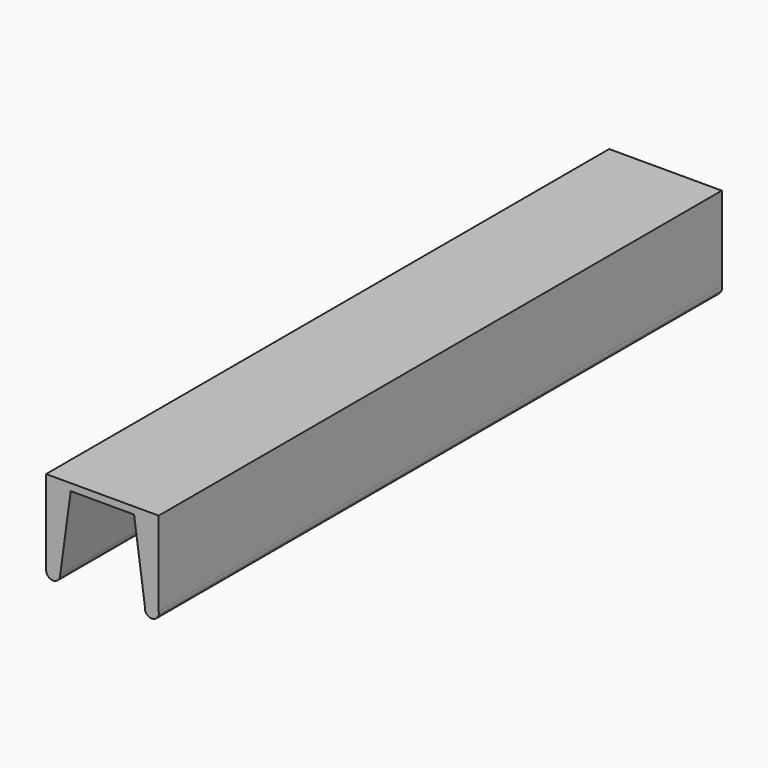
from build123d import *

# Parameters (mm, degrees)
F1_DEPTH = 317.5


with BuildPart() as f1:
    # F0 (on Front) → F1 (new body, symmetric)
    with BuildSketch(Plane.XZ):
        with BuildLine():
            Line((53.8411306598, 32.0202162549), (31.6161306598, 32.0202162549))
            Line((31.6161306598, 32.0202162549), (41.3843568915, -37.8297837451))
            ThreePointArc((41.3843568915, -37.8297837451), (47.6127437756, -45.416592874), (53.8411306598, -37.8297837451))
            Line((53.8411306598, -37.8297837451), (53.8411306598, 32.0202162549))
        make_face()
        Polygon((3.0411306598, 38.3702162549), (3.0411306598, 32.0202162549), (31.6161306598, 32.0202162549), (53.8411306598, 32.0202162549), (53.8411306598, 38.3702162549), align=None)
        Polygon((-47.7588693402, 38.3702162549), (-47.7588693402, 32.0202162549), (-25.5338693402, 32.0202162549), (3.0411306598, 32.0202162549), (3.0411306598, 38.3702162549), align=None)
        with BuildLine():
            Line((-25.5338693402, 32.0202162549), (-47.7588693402, 32.0202162549))
            Line((-47.7588693402, 32.0202162549), (-47.7588693402, -37.8297837451))
            ThreePointArc((-47.7588693402, -37.8297837451), (-41.4088693402, -44.1797837451), (-35.0588693402, -37.8297837451))
            Line((-35.0588693402, -37.8297837451), (-25.5338693402, 32.0202162549))
        make_face()
    extrude(amount=F1_DEPTH, both=True)


solid = f1.part
